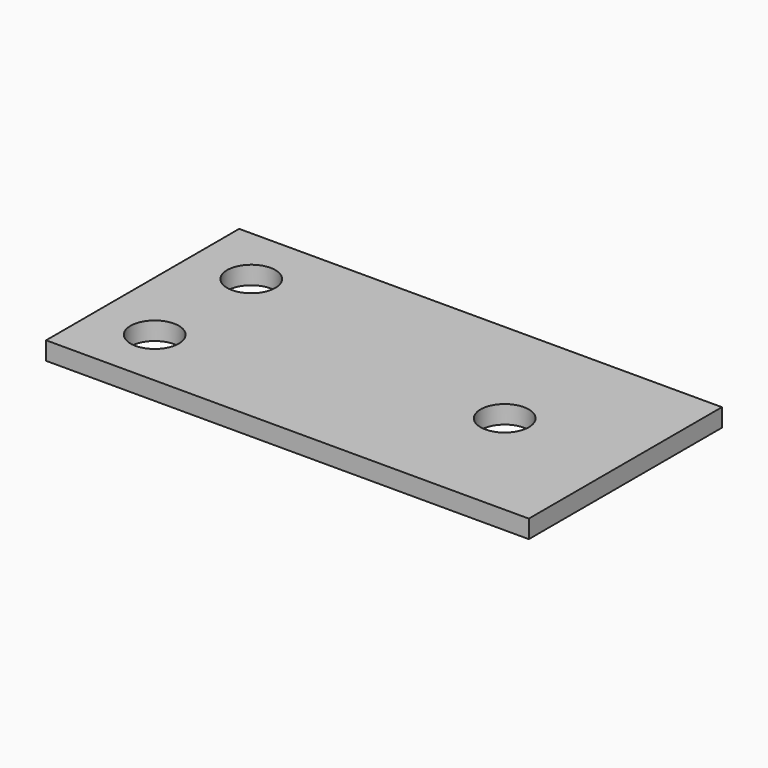
from build123d import *

# Parameters (mm, degrees)
F0_W     = 40
F0_H     = 20
F0_R     = 2
F1_DEPTH = 1.5


with BuildPart() as f1:
    # F0 (on Top) → F1 (new body)
    with BuildSketch(Plane.XY):
        with Locations((20, -10)):
            Rectangle(F0_W, F0_H)
        with Locations((5, -15)):
            Circle(F0_R, mode=Mode.SUBTRACT)
        with Locations((5, -5)):
            Circle(F0_R, mode=Mode.SUBTRACT)
        with Locations((30, -10)):
            Circle(F0_R, mode=Mode.SUBTRACT)
    extrude(amount=F1_DEPTH)


solid = f1.part
